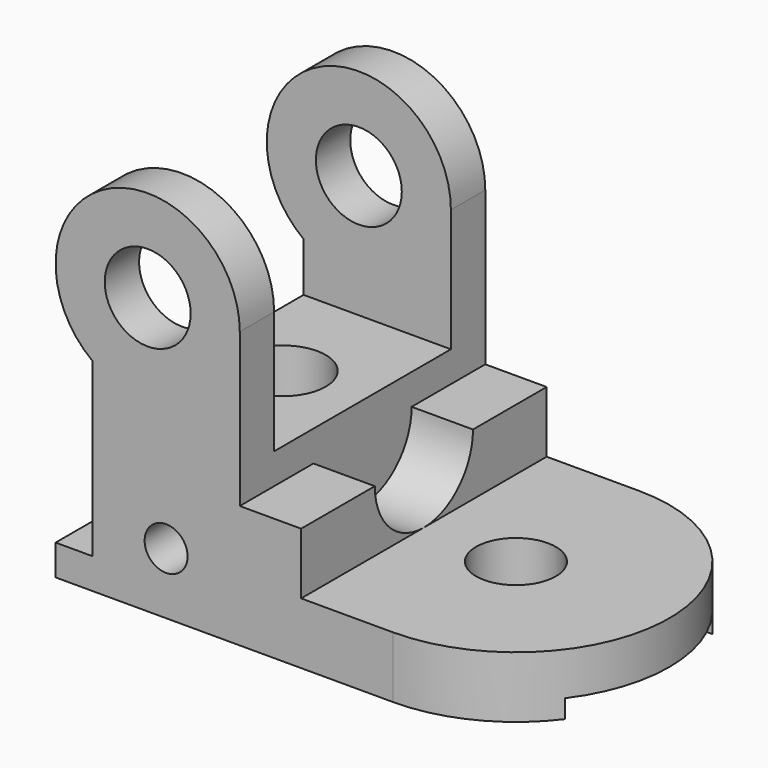
from build123d import *

# Parameters (mm, degrees)
SKETCH_R        = 7
SKETCH_R_2      = 3.5
PAD_DEPTH       = 25
SKETCH001_R     = 25
PAD001_DEPTH    = 10
SKETCH002_W     = 35
SKETCH002_H     = 36
POCKET_DEPTH    = 30.001
SKETCH003_R     = 7
POCKET001_DEPTH = 25.001
SKETCH004_R     = 6.5
POCKET002_DEPTH = 10.001
SKETCH005_W     = 10
SKETCH005_H     = 50
PAD002_DEPTH    = 10
SKETCH006_R     = 10
POCKET003_DEPTH = 10
SKETCH007_W     = 3
SKETCH007_H     = 30
POCKET004_DEPTH = 80.001


with BuildPart() as part:
    # Sketch → Pad (new body, symmetric)
    with BuildSketch(Plane.XZ):
        with BuildLine():
            Line((0, 0), (0, 5))
            Line((0, 5), (6, 5))
            Line((6, 5), (6, 33))
            ThreePointArc((30, 45), (8.291796, 58.416408), (6, 33))
            Line((30, 10), (30, 45))
            Line((55, 10), (30, 10))
            Line((55, 0), (55, 10))
            Line((0, 0), (55, 0))
        make_face()
        with Locations((15, 45)):
            Circle(SKETCH_R, mode=Mode.SUBTRACT)
        with Locations((18, 10)):
            Circle(SKETCH_R_2, mode=Mode.SUBTRACT)
    extrude(amount=PAD_DEPTH, both=True)

    # Sketch001 (on Face6 of Pad) → Pad001 (join)
    with BuildSketch(Plane(origin=(0, 0, 10), x_dir=(-1, 0, 0), z_dir=(0, 0, 1))):
        with Locations((-55, 0)):
            Circle(SKETCH001_R)
    extrude(amount=-PAD001_DEPTH)

    # Sketch002 (on Face7 of Pad001) → Pocket (cut, through all)
    with BuildSketch(Plane(origin=(30, 0, 0), x_dir=(0, 0, 1), z_dir=(1, 0, 0))):
        with Locations((42.5, 0)):
            Rectangle(SKETCH002_W, SKETCH002_H)
    extrude(amount=-POCKET_DEPTH, mode=Mode.SUBTRACT)

    # Sketch003 (on Face16 of Pocket) → Pocket001 (cut, through all)
    with BuildSketch(Plane(origin=(0, 0, 25), x_dir=(-1, 0, 0), z_dir=(0, 0, 1))):
        with Locations((-17, 0)):
            Circle(SKETCH003_R)
    extrude(amount=-POCKET001_DEPTH, mode=Mode.SUBTRACT)

    # Sketch004 (on Face11 of Pocket001) → Pocket002 (cut, through all)
    with BuildSketch(Plane(origin=(0, 0, 10), x_dir=(-1, 0, 0), z_dir=(0, 0, 1))):
        with Locations((-55, 0)):
            Circle(SKETCH004_R)
    extrude(amount=-POCKET002_DEPTH, mode=Mode.SUBTRACT)

    # Sketch005 (on Face11 of Pocket002) → Pad002 (join)
    with BuildSketch(Plane(origin=(30, 0, 0), x_dir=(0, 0, 1), z_dir=(1, 0, 0))):
        with Locations((15, 0)):
            Rectangle(SKETCH005_W, SKETCH005_H)
    extrude(amount=PAD002_DEPTH)

    # Sketch006 (on Face20 of Pad002) → Pocket003 (cut)
    with BuildSketch(Plane(origin=(40, 0, 0), x_dir=(0, 0, 1), z_dir=(1, 0, 0))):
        with Locations((20, 0)):
            Circle(SKETCH006_R)
    extrude(amount=-POCKET003_DEPTH, mode=Mode.SUBTRACT)

    # Sketch007 (on Face1 of Pocket003) → Pocket004 (cut, through all)
    with BuildSketch(Plane(origin=(0, 0, 0), x_dir=(0, 0, -1), z_dir=(-1, 0, 0))):
        with Locations((-1.5, 0)):
            Rectangle(SKETCH007_W, SKETCH007_H)
    extrude(amount=-POCKET004_DEPTH, mode=Mode.SUBTRACT)


solid = part.part
